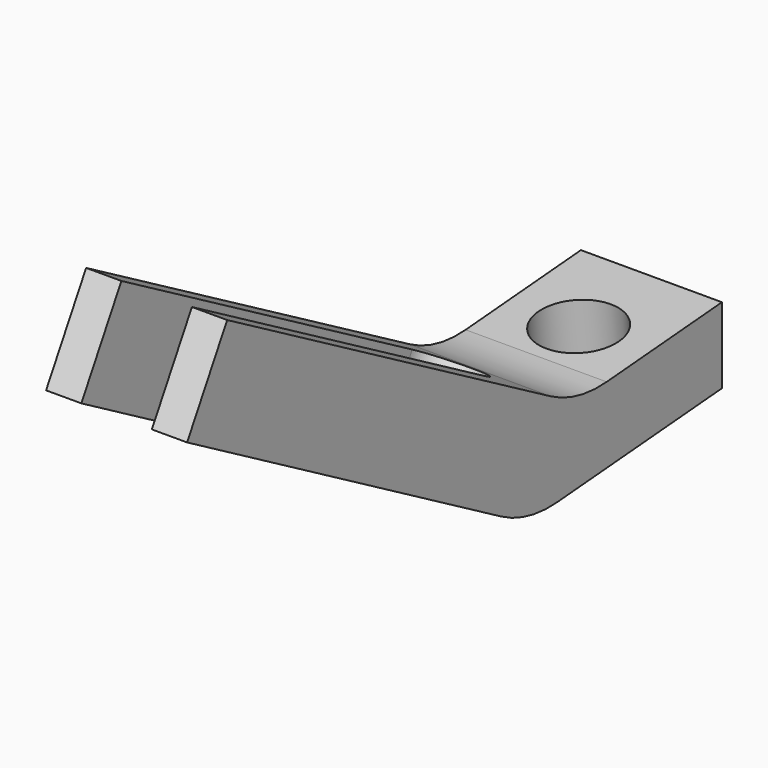
from build123d import *

# Parameters (mm, degrees)
F0_R     = 3.1
F1_DEPTH = 14
F2_R     = 4
F3_DEPTH = 25
F5_DEPTH = 25
F6_R     = 12


with BuildPart() as f1:
    # F0 (on Right) → F1 (new body)
    with BuildSketch(Plane.YZ):
        Polygon((36.3872624823, -13.7823516789), (36.3872624823, -6.2581492842), (18.3872624823, -7.7053745112), (-25.0031341377, 17.139614544), (-29.9721319488, 8.46153522), (12.2630268532, -15.7219740336), align=None)
        with Locations((-22.3021764927, 9.8314245335)):
            Circle(F0_R, mode=Mode.SUBTRACT)
        with Locations((-22.3021764927, 9.8314245335)):
            Circle(F0_R)
    extrude(amount=F1_DEPTH)

    # F2 (on face) → F3 (cut)
    with BuildSketch(Plane(origin=(0, 0.733642711, -9.1247502824), x_dir=(1, 0, 0), z_dir=(0, -0.0801427819, 0.996783394))):
        with Locations((7, 26.7105877545)):
            Circle(F2_R)
    extrude(amount=-F3_DEPTH, mode=Mode.SUBTRACT)

    # F4 (on face) → F5 (cut)
    with BuildSketch(Plane(origin=(0, 1.2173257447, 2.1259919559), x_dir=(1, 0, 0), z_dir=(0, 0.4968997811, 0.8678079324))):
        with BuildLine():
            ThreePointArc((3.5, -37.5475101173), (7, -41.0475101173), (10.5, -37.5475101173))
            Line((10.5, -37.5475101173), (10.5, 11.3638080657))
            ThreePointArc((10.5, 11.3638080657), (7, 14.8638080657), (3.5, 11.3638080657))
            Line((3.5, 11.3638080657), (3.5, -37.5475101173))
        make_face()
    extrude(amount=-F5_DEPTH, mode=Mode.SUBTRACT)

    # F6
    f6_edges = [f1.edges().sort_by_distance(p)[0] for p in [
        (7, 18.387262, -7.705375),
        (7, 12.263027, -15.721974),
    ]]
    fillet(f6_edges, radius=F6_R)


solid = f1.part
